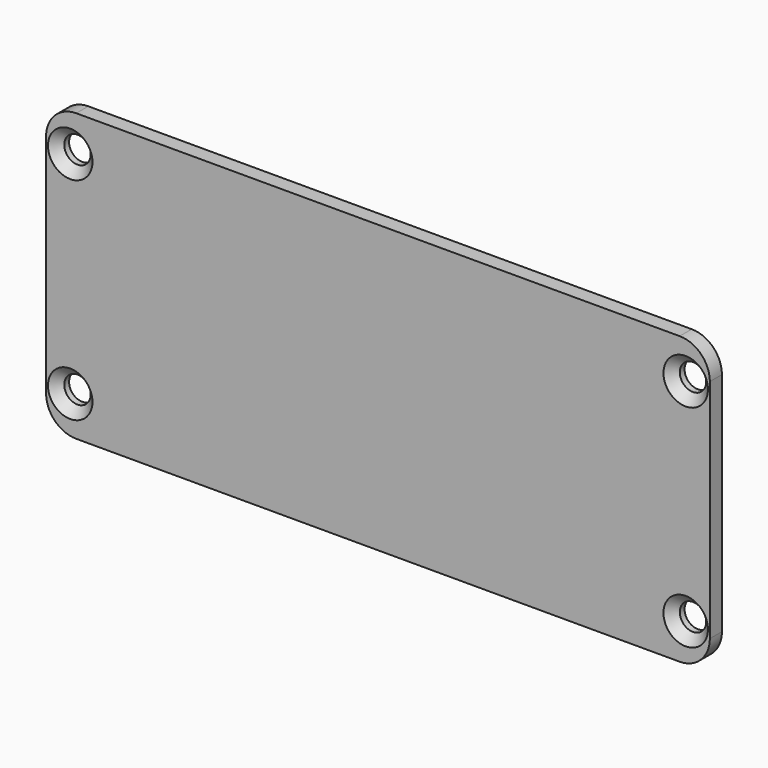
from build123d import *

# Parameters (mm, degrees)
F0_R     = 1.75
F1_DEPTH = 2
F2_SIZE  = 1.2


with BuildPart() as f1:
    # F0 (on Front) → F1 (new body)
    with BuildSketch(Plane.XZ):
        with BuildLine():
            Line((40, 38), (-40, 38))
            ThreePointArc((-40, 38), (-42.828427, 36.828427), (-44, 34))
            Line((-44, 34), (-44, 4))
            ThreePointArc((-44, 4), (-42.828427, 1.171573), (-40, 0))
            Line((-40, 0), (40, 0))
            ThreePointArc((40, 0), (42.828427, 1.171573), (44, 4))
            Line((44, 4), (44, 34))
            ThreePointArc((44, 34), (42.828427, 36.828427), (40, 38))
        make_face()
        with Locations((-40.8, 5)):
            Circle(F0_R, mode=Mode.SUBTRACT)
        with Locations((40.8, 5)):
            Circle(F0_R, mode=Mode.SUBTRACT)
        with Locations((-40.8, 33)):
            Circle(F0_R, mode=Mode.SUBTRACT)
        with Locations((40.8, 33)):
            Circle(F0_R, mode=Mode.SUBTRACT)
    extrude(amount=F1_DEPTH)

    # F2
    f2_edges = [f1.edges().sort_by_distance(p)[0] for p in [
        (-42.55, -2, 33),
        (-42.55, -2, 5),
        (39.05, -2, 5),
        (39.05, -2, 33),
    ]]
    chamfer(f2_edges, length=F2_SIZE)


solid = f1.part
